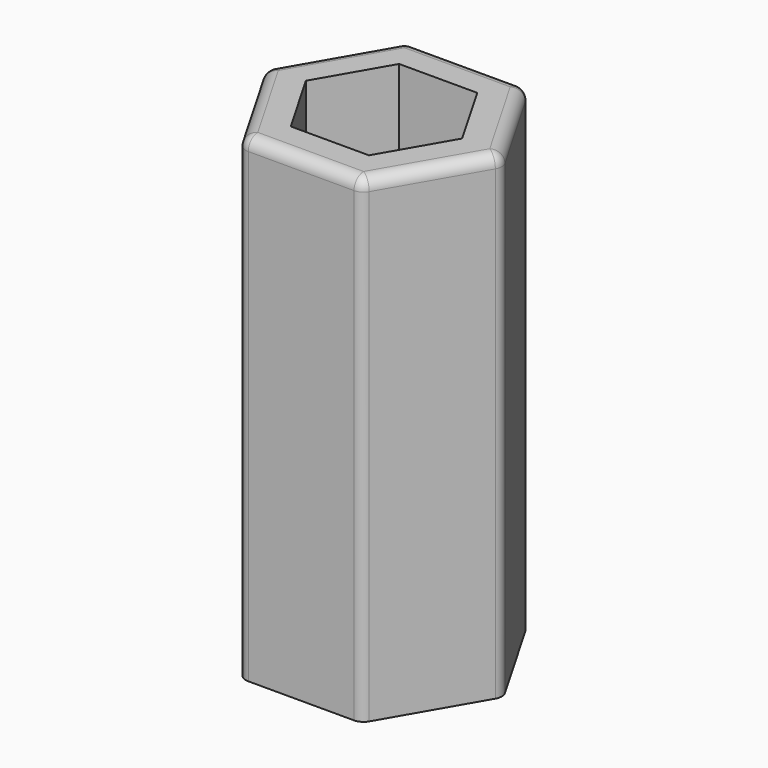
from build123d import *

# Parameters (mm, degrees)
F1_DEPTH = 40
F2_R     = 1


with BuildPart() as f1:
    # F0 (on Top) → F1 (new body)
    with BuildSketch(Plane.XY):
        Polygon((10, 0), (5, 8.660254), (-5, 8.660254), (-10, 0), (-5, -8.660254), (5, -8.660254), align=None)
        Polygon((3.267949, -5.660254), (-3.267949, -5.660254), (-6.535898, 0), (-3.267949, 5.660254), (3.267949, 5.660254), (6.535898, 0), align=None, mode=Mode.SUBTRACT)
    extrude(amount=F1_DEPTH)

    # F2
    f2_edges = [f1.edges().sort_by_distance(p)[0] for p in [
        (5, -8.660254, 20),
        (-5, -8.660254, 20),
        (10, 0, 20),
        (5, 8.660254, 20),
        (-10, 0, 20),
        (-5, 8.660254, 20),
        (0, -8.660254, 40),
        (-7.5, -4.330127, 40),
        (-7.5, 4.330127, 40),
        (0, 8.660254, 40),
        (7.5, 4.330127, 40),
        (7.5, -4.330127, 40),
    ]]
    fillet(f2_edges, radius=F2_R)


solid = f1.part
